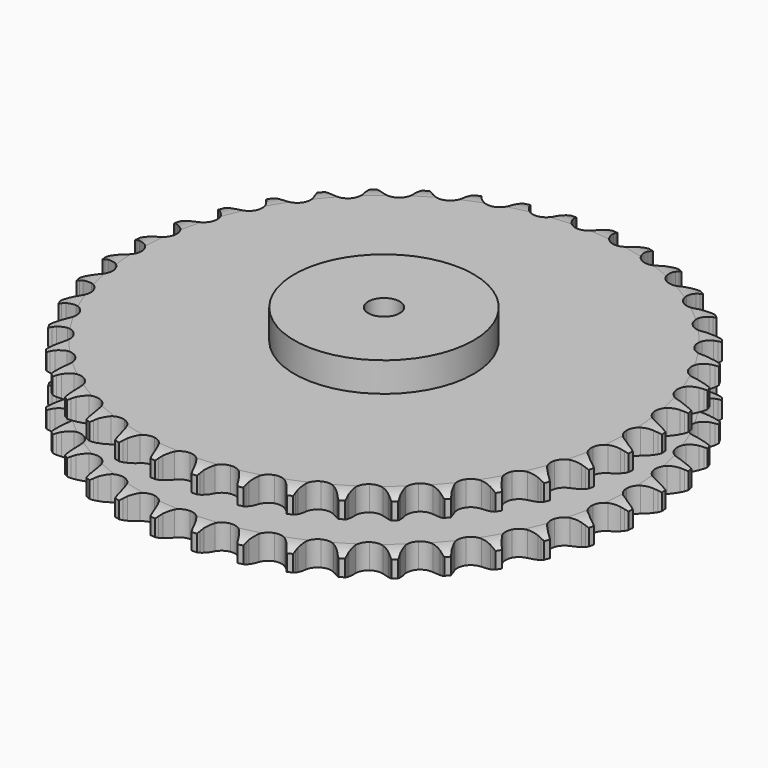
from build123d import *

# Parameters (mm, degrees)
PAD_DEPTH         = 72
SKETCH001_R       = 85
PAD001_DEPTH      = 100
SKETCH002_R       = 15
POCKET_DEPTH      = 0.001
POCKET_DEPTH_BACK = 100.001


with BuildPart() as part:
    # Sprocket → Pad (new body)
    with BuildSketch(Plane.XY):
        with BuildLine():
            ThreePointArc((-19.962435, 253.646786), (-17.694661, 250.524865), (-16.047773, 247.035317))
            Line((-16.047773, 247.035317), (-14.809476, 243.61456))
            ThreePointArc((-14.809476, 243.61456), (-12.855809, 239.236838), (-10.290654, 235.186993))
            ThreePointArc((-10.290654, 235.186993), (-5.76198, 231.370118), (0, 230.000077))
            ThreePointArc((0, 230.000077), (5.76198, 231.370118), (10.290654, 235.186993))
            ThreePointArc((10.290654, 235.186993), (12.855809, 239.236838), (14.809476, 243.61456))
            Line((14.809476, 243.61456), (16.047773, 247.035317))
            ThreePointArc((16.047773, 247.035317), (17.694661, 250.524865), (19.962435, 253.646786))
            ThreePointArc((19.962435, 253.646786), (21.713912, 250.208543), (22.79464, 246.504327))
            Line((22.79464, 246.504327), (23.482567, 242.931973))
            ThreePointArc((23.482567, 242.931973), (24.727354, 238.302528), (26.627393, 233.901264))
            ThreePointArc((26.627393, 233.901264), (30.50322, 229.42294), (35.979939, 227.168394))
            ThreePointArc((35.979939, 227.168394), (41.885301, 227.620195), (46.95531, 230.681638))
            Line((46.95531, 230.681638), (52.73686, 238.298549))
            ThreePointArc((52.73686, 238.298549), (53.572187, 239.915171), (54.495036, 241.483478))
            ThreePointArc((54.495036, 241.483478), (56.667534, 244.672433), (59.395763, 247.40116))
            ThreePointArc((59.395763, 247.40116), (60.587818, 243.731256), (61.075773, 239.903583))
            Line((61.075773, 239.903583), (61.196391, 236.267595))
            ThreePointArc((61.196391, 236.267595), (61.701648, 231.500418), (62.889784, 226.85611))
            ThreePointArc((62.889784, 226.85611), (66.017329, 221.826608), (71.073932, 218.743072))
            ThreePointArc((71.073932, 218.743072), (76.977267, 218.265508), (82.463771, 220.496136))
            Line((82.463771, 220.496136), (89.365688, 227.114836))
            ThreePointArc((89.365688, 227.114836), (90.443626, 228.58088), (91.60045, 229.985514))
            ThreePointArc((91.60045, 229.985514), (94.245064, 232.795354), (97.366571, 235.063697))
            ThreePointArc((97.366571, 235.063697), (97.96985, 231.252497), (97.853017, 227.395616))
            Line((97.853017, 227.395616), (97.403356, 223.785524))
            ThreePointArc((97.403356, 223.785524), (97.156642, 218.997999), (97.603621, 214.225005))
            ThreePointArc((97.603621, 214.225005), (99.905873, 208.768168), (104.41785, 204.931569))
            ThreePointArc((104.41785, 204.931569), (110.173797, 203.5364), (115.9417, 204.881286))
            Line((115.9417, 204.881286), (123.794036, 210.338801))
            ThreePointArc((123.794036, 210.338801), (125.088042, 211.61817), (126.450357, 212.824543))
            ThreePointArc((126.450357, 212.824543), (129.501967, 215.186081), (132.939891, 216.938185))
            ThreePointArc((132.939891, 216.938185), (132.939539, 213.079534), (132.220796, 209.288414))
            Line((132.220796, 209.288414), (131.211928, 205.793111))
            ThreePointArc((131.211928, 205.793111), (130.219317, 201.103123), (129.914132, 196.318969))
            ThreePointArc((129.914132, 196.318969), (131.334403, 190.569164), (135.190653, 186.073971))
            ThreePointArc((135.190653, 186.073971), (140.657483, 183.79555), (146.56476, 184.22158))
            Line((146.56476, 184.22158), (155.174164, 188.383528))
            ThreePointArc((155.174164, 188.383528), (156.652376, 189.444718), (158.186637, 190.423126))
            ThreePointArc((158.186637, 190.423126), (161.570103, 192.278212), (165.239789, 193.470935))
            ThreePointArc((165.239789, 193.470935), (164.635816, 189.659846), (163.332859, 186.027837))
            Line((163.332859, 186.027837), (161.789627, 182.733388))
            ThreePointArc((161.789627, 182.733388), (160.075561, 178.25642), (159.025727, 173.578909))
            ThreePointArc((159.025727, 173.578909), (159.529044, 167.677714), (162.634614, 162.634614))
            ThreePointArc((162.634614, 162.634614), (167.677714, 159.529044), (173.578909, 159.025727))
            Line((173.578909, 159.025727), (182.733388, 161.789627))
            ThreePointArc((182.733388, 161.789627), (184.359409, 162.606509), (186.027837, 163.332859))
            ThreePointArc((186.027837, 163.332859), (189.659846, 164.635816), (193.470935, 165.239789))
            ThreePointArc((193.470935, 165.239789), (192.278212, 161.570103), (190.423126, 158.186637))
            Line((190.423126, 158.186637), (188.383528, 155.174164))
            ThreePointArc((188.383528, 155.174164), (185.990213, 151.020453), (184.22158, 146.56476))
            ThreePointArc((184.22158, 146.56476), (183.79555, 140.657483), (186.073971, 135.190653))
            ThreePointArc((186.073971, 135.190653), (190.569164, 131.334403), (196.318969, 129.914132))
            Line((196.318969, 129.914132), (205.793111, 131.211928))
            ThreePointArc((205.793111, 131.211928), (207.526901, 131.764388), (209.288414, 132.220796))
            ThreePointArc((209.288414, 132.220796), (213.079534, 132.939539), (216.938185, 132.939891))
            ThreePointArc((216.938185, 132.939891), (215.186081, 129.501967), (212.824543, 126.450357))
            Line((212.824543, 126.450357), (210.338801, 123.794036))
            ThreePointArc((210.338801, 123.794036), (207.325169, 120.065862), (204.881286, 115.9417))
            ThreePointArc((204.881286, 115.9417), (203.5364, 110.173797), (204.931569, 104.41785))
            ThreePointArc((204.931569, 104.41785), (208.768168, 99.905873), (214.225005, 97.603621))
            Line((214.225005, 97.603621), (223.785524, 97.403356))
            ThreePointArc((223.785524, 97.403356), (225.584392, 97.67779), (227.395616, 97.853017))
            ThreePointArc((227.395616, 97.853017), (231.252497, 97.96985), (235.063697, 97.366571))
            ThreePointArc((235.063697, 97.366571), (232.795354, 94.245064), (229.985514, 91.60045))
            Line((229.985514, 91.60045), (227.114836, 89.365688))
            ThreePointArc((227.114836, 89.365688), (223.555091, 86.15485), (220.496136, 82.463771))
            ThreePointArc((220.496136, 82.463771), (218.265508, 76.977267), (218.743072, 71.073932))
            ThreePointArc((218.743072, 71.073932), (221.826608, 66.017329), (226.85611, 62.889784))
            Line((226.85611, 62.889784), (236.267595, 61.196391))
            ThreePointArc((236.267595, 61.196391), (238.087246, 61.18604), (239.903583, 61.075773))
            ThreePointArc((239.903583, 61.075773), (243.731256, 60.587818), (247.40116, 59.395763))
            ThreePointArc((247.40116, 59.395763), (244.672433, 56.667534), (241.483478, 54.495036))
            Line((241.483478, 54.495036), (238.298549, 52.73686))
            ThreePointArc((238.298549, 52.73686), (234.280344, 50.122419), (230.681638, 46.95531))
            ThreePointArc((230.681638, 46.95531), (227.620195, 41.885301), (227.168394, 35.979939))
            ThreePointArc((227.168394, 35.979939), (229.42294, 30.50322), (233.901264, 26.627393))
            Line((233.901264, 26.627393), (242.931973, 23.482567))
            ThreePointArc((242.931973, 23.482567), (244.727603, 23.187688), (246.504327, 22.79464))
            ThreePointArc((246.504327, 22.79464), (250.208543, 21.713912), (253.646786, 19.962435))
            ThreePointArc((253.646786, 19.962435), (250.524865, 17.694661), (247.035317, 16.047773))
            Line((247.035317, 16.047773), (243.61456, 14.809476))
            ThreePointArc((243.61456, 14.809476), (239.236838, 12.855809), (235.186993, 10.290654))
            ThreePointArc((235.186993, 10.290654), (231.370118, 5.76198), (230.000077, 0))
            ThreePointArc((230.000077, 0), (231.370118, -5.76198), (235.186993, -10.290654))
            Line((235.186993, -10.290654), (243.61456, -14.809476))
            ThreePointArc((243.61456, -14.809476), (245.341953, -15.381623), (247.035317, -16.047773))
            ThreePointArc((247.035317, -16.047773), (250.524865, -17.694661), (253.646786, -19.962435))
            ThreePointArc((253.646786, -19.962435), (250.208543, -21.713912), (246.504327, -22.79464))
            Line((246.504327, -22.79464), (242.931973, -23.482567))
            ThreePointArc((242.931973, -23.482567), (238.302528, -24.727354), (233.901264, -26.627393))
            ThreePointArc((233.901264, -26.627393), (229.42294, -30.50322), (227.168394, -35.979939))
            ThreePointArc((227.168394, -35.979939), (227.620195, -41.885301), (230.681638, -46.95531))
            Line((230.681638, -46.95531), (238.298549, -52.73686))
            ThreePointArc((238.298549, -52.73686), (239.915171, -53.572187), (241.483478, -54.495036))
            ThreePointArc((241.483478, -54.495036), (244.672433, -56.667534), (247.40116, -59.395763))
            ThreePointArc((247.40116, -59.395763), (243.731256, -60.587818), (239.903583, -61.075773))
            Line((239.903583, -61.075773), (236.267595, -61.196391))
            ThreePointArc((236.267595, -61.196391), (231.500418, -61.701648), (226.85611, -62.889784))
            ThreePointArc((226.85611, -62.889784), (221.826608, -66.017329), (218.743072, -71.073932))
            ThreePointArc((218.743072, -71.073932), (218.265508, -76.977267), (220.496136, -82.463771))
            Line((220.496136, -82.463771), (227.114836, -89.365688))
            ThreePointArc((227.114836, -89.365688), (228.58088, -90.443626), (229.985514, -91.60045))
            ThreePointArc((229.985514, -91.60045), (232.795354, -94.245064), (235.063697, -97.366571))
            ThreePointArc((235.063697, -97.366571), (231.252497, -97.96985), (227.395616, -97.853017))
            Line((227.395616, -97.853017), (223.785524, -97.403356))
            ThreePointArc((223.785524, -97.403356), (218.997999, -97.156642), (214.225005, -97.603621))
            ThreePointArc((214.225005, -97.603621), (208.768168, -99.905873), (204.931569, -104.41785))
            ThreePointArc((204.931569, -104.41785), (203.5364, -110.173797), (204.881286, -115.9417))
            Line((204.881286, -115.9417), (210.338801, -123.794036))
            ThreePointArc((210.338801, -123.794036), (211.61817, -125.088042), (212.824543, -126.450357))
            ThreePointArc((212.824543, -126.450357), (215.186081, -129.501967), (216.938185, -132.939891))
            ThreePointArc((216.938185, -132.939891), (213.079534, -132.939539), (209.288414, -132.220796))
            Line((209.288414, -132.220796), (205.793111, -131.211928))
            ThreePointArc((205.793111, -131.211928), (201.103123, -130.219317), (196.318969, -129.914132))
            ThreePointArc((196.318969, -129.914132), (190.569164, -131.334403), (186.073971, -135.190653))
            ThreePointArc((186.073971, -135.190653), (183.79555, -140.657483), (184.22158, -146.56476))
            Line((184.22158, -146.56476), (188.383528, -155.174164))
            ThreePointArc((188.383528, -155.174164), (189.444718, -156.652376), (190.423126, -158.186637))
            ThreePointArc((190.423126, -158.186637), (192.278212, -161.570103), (193.470935, -165.239789))
            ThreePointArc((193.470935, -165.239789), (189.659846, -164.635816), (186.027837, -163.332859))
            Line((186.027837, -163.332859), (182.733388, -161.789627))
            ThreePointArc((182.733388, -161.789627), (178.25642, -160.075561), (173.578909, -159.025727))
            ThreePointArc((173.578909, -159.025727), (167.677714, -159.529044), (162.634614, -162.634614))
            ThreePointArc((162.634614, -162.634614), (159.529044, -167.677714), (159.025727, -173.578909))
            Line((159.025727, -173.578909), (161.789627, -182.733388))
            ThreePointArc((161.789627, -182.733388), (162.606509, -184.359409), (163.332859, -186.027837))
            ThreePointArc((163.332859, -186.027837), (164.635816, -189.659846), (165.239789, -193.470935))
            ThreePointArc((165.239789, -193.470935), (161.570103, -192.278212), (158.186637, -190.423126))
            Line((158.186637, -190.423126), (155.174164, -188.383528))
            ThreePointArc((155.174164, -188.383528), (151.020453, -185.990213), (146.56476, -184.22158))
            ThreePointArc((146.56476, -184.22158), (140.657483, -183.79555), (135.190653, -186.073971))
            ThreePointArc((135.190653, -186.073971), (131.334403, -190.569164), (129.914132, -196.318969))
            Line((129.914132, -196.318969), (131.211928, -205.793111))
            ThreePointArc((131.211928, -205.793111), (131.764388, -207.526901), (132.220796, -209.288414))
            ThreePointArc((132.220796, -209.288414), (132.939539, -213.079534), (132.939891, -216.938185))
            ThreePointArc((132.939891, -216.938185), (129.501967, -215.186081), (126.450357, -212.824543))
            Line((126.450357, -212.824543), (123.794036, -210.338801))
            ThreePointArc((123.794036, -210.338801), (120.065862, -207.325169), (115.9417, -204.881286))
            ThreePointArc((115.9417, -204.881286), (110.173797, -203.5364), (104.41785, -204.931569))
            ThreePointArc((104.41785, -204.931569), (99.905873, -208.768168), (97.603621, -214.225005))
            Line((97.603621, -214.225005), (97.403356, -223.785524))
            ThreePointArc((97.403356, -223.785524), (97.67779, -225.584392), (97.853017, -227.395616))
            ThreePointArc((97.853017, -227.395616), (97.96985, -231.252497), (97.366571, -235.063697))
            ThreePointArc((97.366571, -235.063697), (94.245064, -232.795354), (91.60045, -229.985514))
            Line((91.60045, -229.985514), (89.365688, -227.114836))
            ThreePointArc((89.365688, -227.114836), (86.15485, -223.555091), (82.463771, -220.496136))
            ThreePointArc((82.463771, -220.496136), (76.977267, -218.265508), (71.073932, -218.743072))
            ThreePointArc((71.073932, -218.743072), (66.017329, -221.826608), (62.889784, -226.85611))
            Line((62.889784, -226.85611), (61.196391, -236.267595))
            ThreePointArc((61.196391, -236.267595), (61.18604, -238.087246), (61.075773, -239.903583))
            ThreePointArc((61.075773, -239.903583), (60.587818, -243.731256), (59.395763, -247.40116))
            ThreePointArc((59.395763, -247.40116), (56.667534, -244.672433), (54.495036, -241.483478))
            Line((54.495036, -241.483478), (52.73686, -238.298549))
            ThreePointArc((52.73686, -238.298549), (50.122419, -234.280344), (46.95531, -230.681638))
            ThreePointArc((46.95531, -230.681638), (41.885301, -227.620195), (35.979939, -227.168394))
            ThreePointArc((35.979939, -227.168394), (30.50322, -229.42294), (26.627393, -233.901264))
            Line((26.627393, -233.901264), (23.482567, -242.931973))
            ThreePointArc((23.482567, -242.931973), (23.187688, -244.727603), (22.79464, -246.504327))
            ThreePointArc((22.79464, -246.504327), (21.713912, -250.208543), (19.962435, -253.646786))
            ThreePointArc((19.962435, -253.646786), (17.694661, -250.524865), (16.047773, -247.035317))
            Line((16.047773, -247.035317), (14.809476, -243.61456))
            ThreePointArc((14.809476, -243.61456), (12.855809, -239.236838), (10.290654, -235.186993))
            ThreePointArc((10.290654, -235.186993), (5.76198, -231.370118), (0, -230.000077))
            ThreePointArc((0, -230.000077), (-5.76198, -231.370118), (-10.290654, -235.186993))
            Line((-10.290654, -235.186993), (-14.809476, -243.61456))
            ThreePointArc((-14.809476, -243.61456), (-15.381623, -245.341953), (-16.047773, -247.035317))
            ThreePointArc((-16.047773, -247.035317), (-17.694661, -250.524865), (-19.962435, -253.646786))
            ThreePointArc((-19.962435, -253.646786), (-21.713912, -250.208543), (-22.79464, -246.504327))
            Line((-22.79464, -246.504327), (-23.482567, -242.931973))
            ThreePointArc((-23.482567, -242.931973), (-24.727354, -238.302528), (-26.627393, -233.901264))
            ThreePointArc((-26.627393, -233.901264), (-30.50322, -229.42294), (-35.979939, -227.168394))
            ThreePointArc((-35.979939, -227.168394), (-41.885301, -227.620195), (-46.95531, -230.681638))
            Line((-46.95531, -230.681638), (-52.73686, -238.298549))
            ThreePointArc((-52.73686, -238.298549), (-53.572187, -239.915171), (-54.495036, -241.483478))
            ThreePointArc((-54.495036, -241.483478), (-56.667534, -244.672433), (-59.395763, -247.40116))
            ThreePointArc((-59.395763, -247.40116), (-60.587818, -243.731256), (-61.075773, -239.903583))
            Line((-61.075773, -239.903583), (-61.196391, -236.267595))
            ThreePointArc((-61.196391, -236.267595), (-61.701648, -231.500418), (-62.889784, -226.85611))
            ThreePointArc((-62.889784, -226.85611), (-66.017329, -221.826608), (-71.073932, -218.743072))
            ThreePointArc((-71.073932, -218.743072), (-76.977267, -218.265508), (-82.463771, -220.496136))
            Line((-82.463771, -220.496136), (-89.365688, -227.114836))
            ThreePointArc((-89.365688, -227.114836), (-90.443626, -228.58088), (-91.60045, -229.985514))
            ThreePointArc((-91.60045, -229.985514), (-94.245064, -232.795354), (-97.366571, -235.063697))
            ThreePointArc((-97.366571, -235.063697), (-97.96985, -231.252497), (-97.853017, -227.395616))
            Line((-97.853017, -227.395616), (-97.403356, -223.785524))
            ThreePointArc((-97.403356, -223.785524), (-97.156642, -218.997999), (-97.603621, -214.225005))
            ThreePointArc((-97.603621, -214.225005), (-99.905873, -208.768168), (-104.41785, -204.931569))
            ThreePointArc((-104.41785, -204.931569), (-110.173797, -203.5364), (-115.9417, -204.881286))
            Line((-115.9417, -204.881286), (-123.794036, -210.338801))
            ThreePointArc((-123.794036, -210.338801), (-125.088042, -211.61817), (-126.450357, -212.824543))
            ThreePointArc((-126.450357, -212.824543), (-129.501967, -215.186081), (-132.939891, -216.938185))
            ThreePointArc((-132.939891, -216.938185), (-132.939539, -213.079534), (-132.220796, -209.288414))
            Line((-132.220796, -209.288414), (-131.211928, -205.793111))
            ThreePointArc((-131.211928, -205.793111), (-130.219317, -201.103123), (-129.914132, -196.318969))
            ThreePointArc((-129.914132, -196.318969), (-131.334403, -190.569164), (-135.190653, -186.073971))
            ThreePointArc((-135.190653, -186.073971), (-140.657483, -183.79555), (-146.56476, -184.22158))
            Line((-146.56476, -184.22158), (-155.174164, -188.383528))
            ThreePointArc((-155.174164, -188.383528), (-156.652376, -189.444718), (-158.186637, -190.423126))
            ThreePointArc((-158.186637, -190.423126), (-161.570103, -192.278212), (-165.239789, -193.470935))
            ThreePointArc((-165.239789, -193.470935), (-164.635816, -189.659846), (-163.332859, -186.027837))
            Line((-163.332859, -186.027837), (-161.789627, -182.733388))
            ThreePointArc((-161.789627, -182.733388), (-160.075561, -178.25642), (-159.025727, -173.578909))
            ThreePointArc((-159.025727, -173.578909), (-159.529044, -167.677714), (-162.634614, -162.634614))
            ThreePointArc((-162.634614, -162.634614), (-167.677714, -159.529044), (-173.578909, -159.025727))
            Line((-173.578909, -159.025727), (-182.733388, -161.789627))
            ThreePointArc((-182.733388, -161.789627), (-184.359409, -162.606509), (-186.027837, -163.332859))
            ThreePointArc((-186.027837, -163.332859), (-189.659846, -164.635816), (-193.470935, -165.239789))
            ThreePointArc((-193.470935, -165.239789), (-192.278212, -161.570103), (-190.423126, -158.186637))
            Line((-190.423126, -158.186637), (-188.383528, -155.174164))
            ThreePointArc((-188.383528, -155.174164), (-185.990213, -151.020453), (-184.22158, -146.56476))
            ThreePointArc((-184.22158, -146.56476), (-183.79555, -140.657483), (-186.073971, -135.190653))
            ThreePointArc((-186.073971, -135.190653), (-190.569164, -131.334403), (-196.318969, -129.914132))
            Line((-196.318969, -129.914132), (-205.793111, -131.211928))
            ThreePointArc((-205.793111, -131.211928), (-207.526901, -131.764388), (-209.288414, -132.220796))
            ThreePointArc((-209.288414, -132.220796), (-213.079534, -132.939539), (-216.938185, -132.939891))
            ThreePointArc((-216.938185, -132.939891), (-215.186081, -129.501967), (-212.824543, -126.450357))
            Line((-212.824543, -126.450357), (-210.338801, -123.794036))
            ThreePointArc((-210.338801, -123.794036), (-207.325169, -120.065862), (-204.881286, -115.9417))
            ThreePointArc((-204.881286, -115.9417), (-203.5364, -110.173797), (-204.931569, -104.41785))
            ThreePointArc((-204.931569, -104.41785), (-208.768168, -99.905873), (-214.225005, -97.603621))
            Line((-214.225005, -97.603621), (-223.785524, -97.403356))
            ThreePointArc((-223.785524, -97.403356), (-225.584392, -97.67779), (-227.395616, -97.853017))
            ThreePointArc((-227.395616, -97.853017), (-231.252497, -97.96985), (-235.063697, -97.366571))
            ThreePointArc((-235.063697, -97.366571), (-232.795354, -94.245064), (-229.985514, -91.60045))
            Line((-229.985514, -91.60045), (-227.114836, -89.365688))
            ThreePointArc((-227.114836, -89.365688), (-223.555091, -86.15485), (-220.496136, -82.463771))
            ThreePointArc((-220.496136, -82.463771), (-218.265508, -76.977267), (-218.743072, -71.073932))
            ThreePointArc((-218.743072, -71.073932), (-221.826608, -66.017329), (-226.85611, -62.889784))
            Line((-226.85611, -62.889784), (-236.267595, -61.196391))
            ThreePointArc((-236.267595, -61.196391), (-238.087246, -61.18604), (-239.903583, -61.075773))
            ThreePointArc((-239.903583, -61.075773), (-243.731256, -60.587818), (-247.40116, -59.395763))
            ThreePointArc((-247.40116, -59.395763), (-244.672433, -56.667534), (-241.483478, -54.495036))
            Line((-241.483478, -54.495036), (-238.298549, -52.73686))
            ThreePointArc((-238.298549, -52.73686), (-234.280344, -50.122419), (-230.681638, -46.95531))
            ThreePointArc((-230.681638, -46.95531), (-227.620195, -41.885301), (-227.168394, -35.979939))
            ThreePointArc((-227.168394, -35.979939), (-229.42294, -30.50322), (-233.901264, -26.627393))
            Line((-233.901264, -26.627393), (-242.931973, -23.482567))
            ThreePointArc((-242.931973, -23.482567), (-244.727603, -23.187688), (-246.504327, -22.79464))
            ThreePointArc((-246.504327, -22.79464), (-250.208543, -21.713912), (-253.646786, -19.962435))
            ThreePointArc((-253.646786, -19.962435), (-250.524865, -17.694661), (-247.035317, -16.047773))
            Line((-247.035317, -16.047773), (-243.61456, -14.809476))
            ThreePointArc((-243.61456, -14.809476), (-239.236838, -12.855809), (-235.186993, -10.290654))
            ThreePointArc((-235.186993, -10.290654), (-231.370118, -5.76198), (-230.000077, 0))
            ThreePointArc((-230.000077, 0), (-231.370118, 5.76198), (-235.186993, 10.290654))
            Line((-235.186993, 10.290654), (-243.61456, 14.809476))
            ThreePointArc((-243.61456, 14.809476), (-245.341953, 15.381623), (-247.035317, 16.047773))
            ThreePointArc((-247.035317, 16.047773), (-250.524865, 17.694661), (-253.646786, 19.962435))
            ThreePointArc((-253.646786, 19.962435), (-250.208543, 21.713912), (-246.504327, 22.79464))
            Line((-246.504327, 22.79464), (-242.931973, 23.482567))
            ThreePointArc((-242.931973, 23.482567), (-238.302528, 24.727354), (-233.901264, 26.627393))
            ThreePointArc((-233.901264, 26.627393), (-229.42294, 30.50322), (-227.168394, 35.979939))
            ThreePointArc((-227.168394, 35.979939), (-227.620195, 41.885301), (-230.681638, 46.95531))
            Line((-230.681638, 46.95531), (-238.298549, 52.73686))
            ThreePointArc((-238.298549, 52.73686), (-239.915171, 53.572187), (-241.483478, 54.495036))
            ThreePointArc((-241.483478, 54.495036), (-244.672433, 56.667534), (-247.40116, 59.395763))
            ThreePointArc((-247.40116, 59.395763), (-243.731256, 60.587818), (-239.903583, 61.075773))
            Line((-239.903583, 61.075773), (-236.267595, 61.196391))
            ThreePointArc((-236.267595, 61.196391), (-231.500418, 61.701648), (-226.85611, 62.889784))
            ThreePointArc((-226.85611, 62.889784), (-221.826608, 66.017329), (-218.743072, 71.073932))
            ThreePointArc((-218.743072, 71.073932), (-218.265508, 76.977267), (-220.496136, 82.463771))
            Line((-220.496136, 82.463771), (-227.114836, 89.365688))
            ThreePointArc((-227.114836, 89.365688), (-228.58088, 90.443626), (-229.985514, 91.60045))
            ThreePointArc((-229.985514, 91.60045), (-232.795354, 94.245064), (-235.063697, 97.366571))
            ThreePointArc((-235.063697, 97.366571), (-231.252497, 97.96985), (-227.395616, 97.853017))
            Line((-227.395616, 97.853017), (-223.785524, 97.403356))
            ThreePointArc((-223.785524, 97.403356), (-218.997999, 97.156642), (-214.225005, 97.603621))
            ThreePointArc((-214.225005, 97.603621), (-208.768168, 99.905873), (-204.931569, 104.41785))
            ThreePointArc((-204.931569, 104.41785), (-203.5364, 110.173797), (-204.881286, 115.9417))
            Line((-204.881286, 115.9417), (-210.338801, 123.794036))
            ThreePointArc((-210.338801, 123.794036), (-211.61817, 125.088042), (-212.824543, 126.450357))
            ThreePointArc((-212.824543, 126.450357), (-215.186081, 129.501967), (-216.938185, 132.939891))
            ThreePointArc((-216.938185, 132.939891), (-213.079534, 132.939539), (-209.288414, 132.220796))
            Line((-209.288414, 132.220796), (-205.793111, 131.211928))
            ThreePointArc((-205.793111, 131.211928), (-201.103123, 130.219317), (-196.318969, 129.914132))
            ThreePointArc((-196.318969, 129.914132), (-190.569164, 131.334403), (-186.073971, 135.190653))
            ThreePointArc((-186.073971, 135.190653), (-183.79555, 140.657483), (-184.22158, 146.56476))
            Line((-184.22158, 146.56476), (-188.383528, 155.174164))
            ThreePointArc((-188.383528, 155.174164), (-189.444718, 156.652376), (-190.423126, 158.186637))
            ThreePointArc((-190.423126, 158.186637), (-192.278212, 161.570103), (-193.470935, 165.239789))
            ThreePointArc((-193.470935, 165.239789), (-189.659846, 164.635816), (-186.027837, 163.332859))
            Line((-186.027837, 163.332859), (-182.733388, 161.789627))
            ThreePointArc((-182.733388, 161.789627), (-178.25642, 160.075561), (-173.578909, 159.025727))
            ThreePointArc((-173.578909, 159.025727), (-167.677714, 159.529044), (-162.634614, 162.634614))
            ThreePointArc((-162.634614, 162.634614), (-159.529044, 167.677714), (-159.025727, 173.578909))
            Line((-159.025727, 173.578909), (-161.789627, 182.733388))
            ThreePointArc((-161.789627, 182.733388), (-162.606509, 184.359409), (-163.332859, 186.027837))
            ThreePointArc((-163.332859, 186.027837), (-164.635816, 189.659846), (-165.239789, 193.470935))
            ThreePointArc((-165.239789, 193.470935), (-161.570103, 192.278212), (-158.186637, 190.423126))
            Line((-158.186637, 190.423126), (-155.174164, 188.383528))
            ThreePointArc((-155.174164, 188.383528), (-151.020453, 185.990213), (-146.56476, 184.22158))
            ThreePointArc((-146.56476, 184.22158), (-140.657483, 183.79555), (-135.190653, 186.073971))
            ThreePointArc((-135.190653, 186.073971), (-131.334403, 190.569164), (-129.914132, 196.318969))
            Line((-129.914132, 196.318969), (-131.211928, 205.793111))
            ThreePointArc((-131.211928, 205.793111), (-131.764388, 207.526901), (-132.220796, 209.288414))
            ThreePointArc((-132.220796, 209.288414), (-132.939539, 213.079534), (-132.939891, 216.938185))
            ThreePointArc((-132.939891, 216.938185), (-129.501967, 215.186081), (-126.450357, 212.824543))
            Line((-126.450357, 212.824543), (-123.794036, 210.338801))
            ThreePointArc((-123.794036, 210.338801), (-120.065862, 207.325169), (-115.9417, 204.881286))
            ThreePointArc((-115.9417, 204.881286), (-110.173797, 203.5364), (-104.41785, 204.931569))
            ThreePointArc((-104.41785, 204.931569), (-99.905873, 208.768168), (-97.603621, 214.225005))
            Line((-97.603621, 214.225005), (-97.403356, 223.785524))
            ThreePointArc((-97.403356, 223.785524), (-97.67779, 225.584392), (-97.853017, 227.395616))
            ThreePointArc((-97.853017, 227.395616), (-97.96985, 231.252497), (-97.366571, 235.063697))
            ThreePointArc((-97.366571, 235.063697), (-94.245064, 232.795354), (-91.60045, 229.985514))
            Line((-91.60045, 229.985514), (-89.365688, 227.114836))
            ThreePointArc((-89.365688, 227.114836), (-86.15485, 223.555091), (-82.463771, 220.496136))
            ThreePointArc((-82.463771, 220.496136), (-76.977267, 218.265508), (-71.073932, 218.743072))
            ThreePointArc((-71.073932, 218.743072), (-66.017329, 221.826608), (-62.889784, 226.85611))
            Line((-62.889784, 226.85611), (-61.196391, 236.267595))
            ThreePointArc((-61.196391, 236.267595), (-61.18604, 238.087246), (-61.075773, 239.903583))
            ThreePointArc((-61.075773, 239.903583), (-60.587818, 243.731256), (-59.395763, 247.40116))
            ThreePointArc((-59.395763, 247.40116), (-56.667534, 244.672433), (-54.495036, 241.483478))
            Line((-54.495036, 241.483478), (-52.73686, 238.298549))
            ThreePointArc((-52.73686, 238.298549), (-50.122419, 234.280344), (-46.95531, 230.681638))
            ThreePointArc((-46.95531, 230.681638), (-41.885301, 227.620195), (-35.979939, 227.168394))
            ThreePointArc((-35.979939, 227.168394), (-30.50322, 229.42294), (-26.627393, 233.901264))
            Line((-26.627393, 233.901264), (-23.482567, 242.931973))
            ThreePointArc((-23.482567, 242.931973), (-23.187688, 244.727603), (-22.79464, 246.504327))
            ThreePointArc((-22.79464, 246.504327), (-21.713912, 250.208543), (-19.962435, 253.646786))
        make_face()
    extrude(amount=PAD_DEPTH)

    # Sketch → Groove (revolve, cut)
    with BuildSketch(Plane.XZ):
        with BuildLine():
            ThreePointArc((233.329437, 0), (242.047235, 1.013516), (250.3, 4))
            Line((250.3, 4), (250.3, 19.6))
            ThreePointArc((250.3, 19.6), (242.047235, 22.586484), (233.329437, 23.6))
            Line((85, 23.6), (233.329437, 23.6))
            Line((85, 48.4), (85, 23.6))
            Line((233.329437, 48.4), (85, 48.4))
            ThreePointArc((233.329437, 48.4), (242.047235, 49.413516), (250.3, 52.4))
            Line((250.3, 52.4), (250.3, 68))
            ThreePointArc((250.3, 68), (242.047235, 70.986484), (233.329437, 72))
            Line((233.329437, 72), (260.3, 72))
            Line((260.3, 72), (260.3, 0))
            Line((233.329437, 0), (260.3, 0))
        make_face()
    revolve(axis=Axis((0, 0, 0), (0, 0, 1)), mode=Mode.SUBTRACT)

    # Sketch001 → Pad001 (join)
    with BuildSketch(Plane.XY):
        Circle(SKETCH001_R)
    extrude(amount=PAD001_DEPTH)

    # Sketch002 → Pocket (cut, two sides)
    with BuildSketch(Plane.XY) as pocket_sk:
        Circle(SKETCH002_R)
    extrude(amount=-POCKET_DEPTH, mode=Mode.SUBTRACT)
    extrude(pocket_sk.sketch, amount=POCKET_DEPTH_BACK, mode=Mode.SUBTRACT)


solid = part.part
